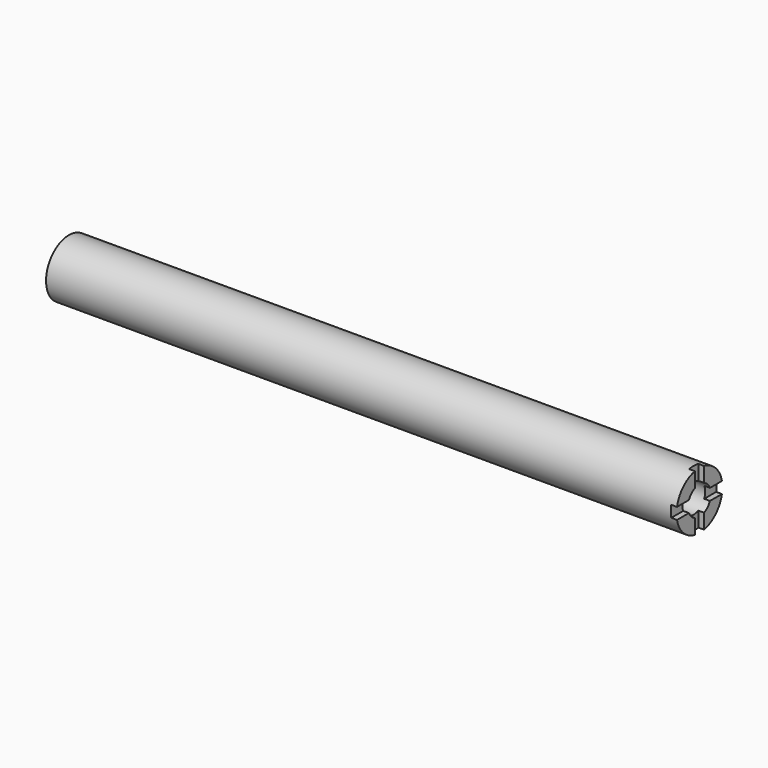
from build123d import *

# Parameters (mm, degrees)
F0_R     = 12.7
F1_DEPTH = 279.4
F3_R     = 6.35
F4_DEPTH = 25.4
F2_W     = 5.08
F2_H     = 10.974992
F2_W_2   = 11.399944
F2_H_2   = 5.08
F5_DEPTH = 2.54


with BuildPart() as f1:
    # F0 (on Right) → F1 (new body)
    with BuildSketch(Plane.YZ):
        with Locations((8.020096, 19.477375)):
            Circle(F0_R)
    extrude(amount=F1_DEPTH)

    # F3 (on face) → F4 (cut)
    with BuildSketch(Plane.YZ.offset(279.4)):
        with Locations((8.020096, 19.477375)):
            Circle(F3_R)
    extrude(amount=-F4_DEPTH, mode=Mode.SUBTRACT)

    # F2 (on face) → F5 (cut)
    with BuildSketch(Plane.YZ.offset(279.4)):
        Polygon((10.560096, 22.017375), (10.560096, 19.477375), (10.560096, 16.937375), (21.670936, 16.937375), (21.670936, 22.017375), align=None)
        Polygon((10.560096, 16.937375), (10.560096, 19.477375), (10.560096, 22.017375), (5.480096, 22.017375), (5.480096, 16.937375), (8.020096, 16.937375), align=None)
        Polygon((10.560096, 6.082837), (10.560096, 16.937375), (8.020096, 16.937375), (5.480096, 16.937375), (5.480096, 6.082837), align=None)
        with Locations((8.020096, 27.504871)):
            Rectangle(F2_W, F2_H)
        with Locations((-0.219876, 19.477375)):
            Rectangle(F2_W_2, F2_H_2)
    extrude(amount=-F5_DEPTH, mode=Mode.SUBTRACT)


solid = f1.part
